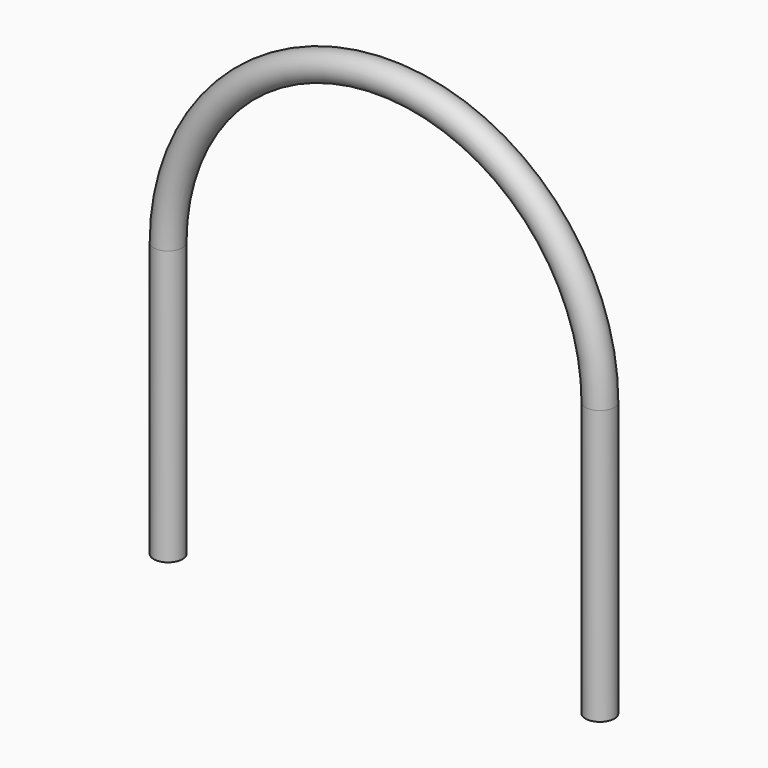
from build123d import *

# Parameters (mm, degrees)
F0_R     = 4.0005
F1_DEPTH = 76.2
F2_R     = 4.0005
F3_ANGLE = 180


with BuildPart() as f1:
    # F0 (on Top) → F1 (new body)
    with BuildSketch(Plane.XY):
        Circle(F0_R)
    extrude(amount=F1_DEPTH)



with BuildPart() as f1b:
    # F0 (on Top) → F1, piece 2 (new body)
    with BuildSketch(Plane.XY):
        with Locations((-120.06, 0)):
            Circle(F0_R)
    extrude(amount=F1_DEPTH)


with BuildPart() as f1_1:
    add(f1.part)

    add(f1b.part)  # F3 merges F1b
    # F2 (on face) → F3 (revolve)
    with BuildSketch(Plane.XY.offset(76.2)):
        with Locations((-120.06, 0)):
            Circle(F2_R)
    revolve(axis=Axis((-60.03, -12.1569465846, 76.2), (0, 1, 0)), revolution_arc=F3_ANGLE)


solid = f1_1.part
